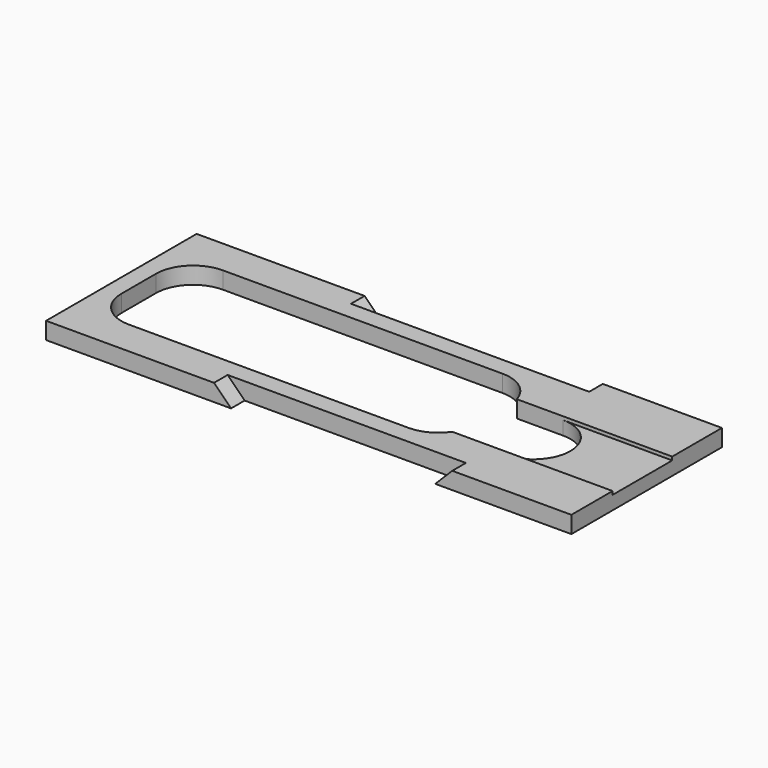
from build123d import *

# Parameters (mm, degrees)
F1_DEPTH = 2.54
F3_DEPTH = 2.54
F5_DEPTH = 2.54
F6_DEPTH = 2.032


with BuildPart() as f1:
    # F0 (on Top) → F1 (new body)
    with BuildSketch(Plane.XY):
        with BuildLine():
            ThreePointArc((5.5372, 0), (1.621808, 1.621808), (0, 5.5372))
            Line((0, 5.5372), (0, 11.9888))
            ThreePointArc((0, 11.9888), (1.621808, 15.904192), (5.5372, 17.526))
            Line((5.5372, 17.526), (47.2948, 17.526))
            ThreePointArc((47.2948, 17.526), (50.617543, 16.418242), (52.610808, 13.5382))
            Line((52.610808, 13.5382), (59.50739, 13.5382))
            Line((59.50739, 13.5382), (75.818647, 13.5382))
            Line((75.818647, 13.5382), (75.818647, 20.2692))
            Line((75.818647, 20.2692), (-2.5908, 20.2692))
            Line((-2.5908, 20.2692), (-2.5908, -2.7432))
            Line((-2.5908, -2.7432), (75.818647, -2.7432))
            Line((75.818647, -2.7432), (75.818647, 2.413))
            Line((75.818647, 2.413), (59.50739, 2.413))
            Line((59.50739, 2.413), (51.866447, 2.413))
            ThreePointArc((51.866447, 2.413), (49.879492, 0.640267), (47.2948, 0))
            Line((47.2948, 0), (5.5372, 0))
        make_face()
    extrude(amount=F1_DEPTH)

    # F2 (on face) → F3 (join)
    with BuildSketch(Plane.XZ.offset(2.7432)):
        Polygon((-2.5908, 0), (25.018647, 0), (22.478647, 2.54), (-2.5908, 2.54), align=None)
        Polygon((58.038647, 2.54), (55.498647, 0), (75.818647, 0), (75.818647, 2.54), align=None)
        Polygon((-2.5908, 0), (25.018647, 0), (22.478647, 2.54), (-2.5908, 2.54), align=None)
        Polygon((58.038647, 2.54), (55.498647, 0), (75.818647, 0), (75.818647, 2.54), align=None)
    extrude(amount=F3_DEPTH)

    # F4 (on face) → F5 (join)
    with BuildSketch(Plane(origin=(0, 20.2692, 0), x_dir=(-1, 0, 0), z_dir=(0, 1, 0))):
        Polygon((-75.818647, 0), (-55.498647, 0), (-58.038647, 2.54), (-75.818647, 2.54), align=None)
        Polygon((-22.478647, 2.54), (-25.018647, 0), (2.5908, 0), (2.5908, 2.54), align=None)
        Polygon((-75.818647, 0), (-55.498647, 0), (-58.038647, 2.54), (-75.818647, 2.54), align=None)
        Polygon((-22.478647, 2.54), (-25.018647, 0), (2.5908, 0), (2.5908, 2.54), align=None)
    extrude(amount=F5_DEPTH)

    # F0 (on Top) → F6 (join)
    with BuildSketch(Plane.XY):
        with BuildLine():
            ThreePointArc((59.50739, 13.5382), (65.06999, 7.9756), (59.50739, 2.413))
            Line((59.50739, 2.413), (75.818647, 2.413))
            Line((75.818647, 2.413), (75.818647, 13.5382))
            Line((75.818647, 13.5382), (59.50739, 13.5382))
        make_face()
    extrude(amount=F6_DEPTH)


solid = f1.part
